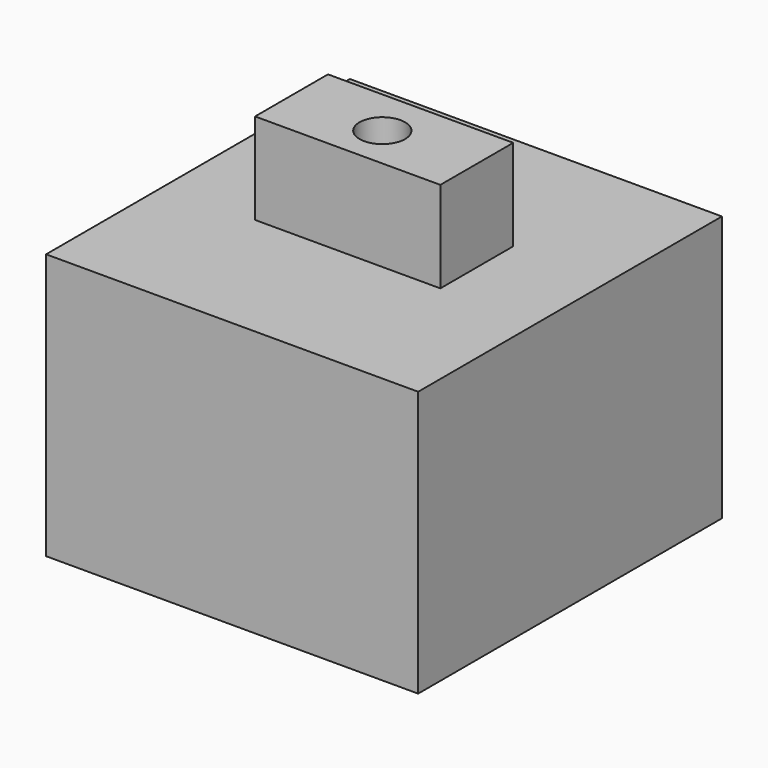
from build123d import *

# Parameters (mm, degrees)
F0_W     = 62.23
F0_H     = 63.5
F1_DEPTH = 44.45
F2_W     = 30.988
F2_H     = 15.24
F3_DEPTH = 15.24
F4_R     = 3.81
F5_DEPTH = 12.7


with BuildPart() as f1:
    # F0 (on Top) → F1 (new body)
    with BuildSketch(Plane.XY):
        with Locations((31.115, 31.75)):
            Rectangle(F0_W, F0_H)
    extrude(amount=-F1_DEPTH)

    # F2 (on face) → F3 (join)
    with BuildSketch(Plane.XY):
        with Locations((30.734, 32.258)):
            Rectangle(F2_W, F2_H)
    extrude(amount=F3_DEPTH)

    # F4 (on face) → F5 (cut)
    with BuildSketch(Plane.XY.offset(15.24)):
        with Locations((30.734, 31.877)):
            Circle(F4_R)
    extrude(amount=-F5_DEPTH, mode=Mode.SUBTRACT)


solid = f1.part
